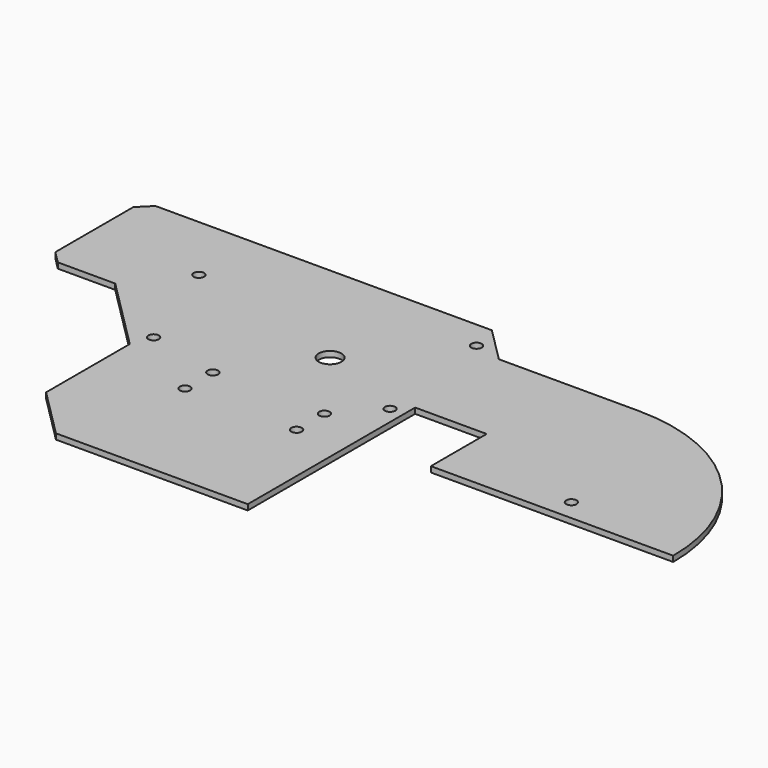
from build123d import *

# Parameters (mm, degrees)
SKETCH_R   = 1.5
SKETCH_R_2 = 3.25
PAD_DEPTH  = 1.6


with BuildPart() as part:
    # Sketch → Pad (new body)
    with BuildSketch(Plane.XY):
        with BuildLine():
            Line((20.5, 0), (20.5, 20))
            Line((20.5, 20), (0, 20))
            Line((0, 20), (0, -40))
            Line((0, -40), (-55, -40))
            Line((-55, -40), (-69.142136, -25.857864))
            Line((-69.142136, -25.857864), (-69.142136, 4.142136))
            Line((-69.142136, 4.142136), (-90, 25))
            Line((-90, 25), (-106.464466, 25))
            Line((-106.464466, 25), (-110, 28.535534))
            Line((-110, 28.535534), (-110, 56.464466))
            Line((-110, 56.464466), (-106.464466, 60))
            Line((-106.464466, 60), (-10, 60))
            Line((-10, 60), (0, 50))
            Line((0, 50), (40, 50))
            ThreePointArc((90, 0), (75.355339, 35.355339), (40, 50))
            Line((20.5, 0), (90, 0))
        make_face()
        with Locations((56, 6)):
            Circle(SKETCH_R, mode=Mode.SUBTRACT)
        with Locations((-8, 52)):
            Circle(SKETCH_R, mode=Mode.SUBTRACT)
        with Locations((-78, 40)):
            Circle(SKETCH_R, mode=Mode.SUBTRACT)
        with Locations((-4, 16)):
            Circle(SKETCH_R, mode=Mode.SUBTRACT)
        with Locations((-67, 10)):
            Circle(SKETCH_R, mode=Mode.SUBTRACT)
        with Locations((-30, 27)):
            Circle(SKETCH_R_2, mode=Mode.SUBTRACT)
        with Locations((-46, 5)):
            Circle(SKETCH_R, mode=Mode.SUBTRACT)
        with Locations((-14, 5)):
            Circle(SKETCH_R, mode=Mode.SUBTRACT)
        with Locations((-14, -5)):
            Circle(SKETCH_R, mode=Mode.SUBTRACT)
        with Locations((-46, -5)):
            Circle(SKETCH_R, mode=Mode.SUBTRACT)
    extrude(amount=PAD_DEPTH)


solid = part.part
